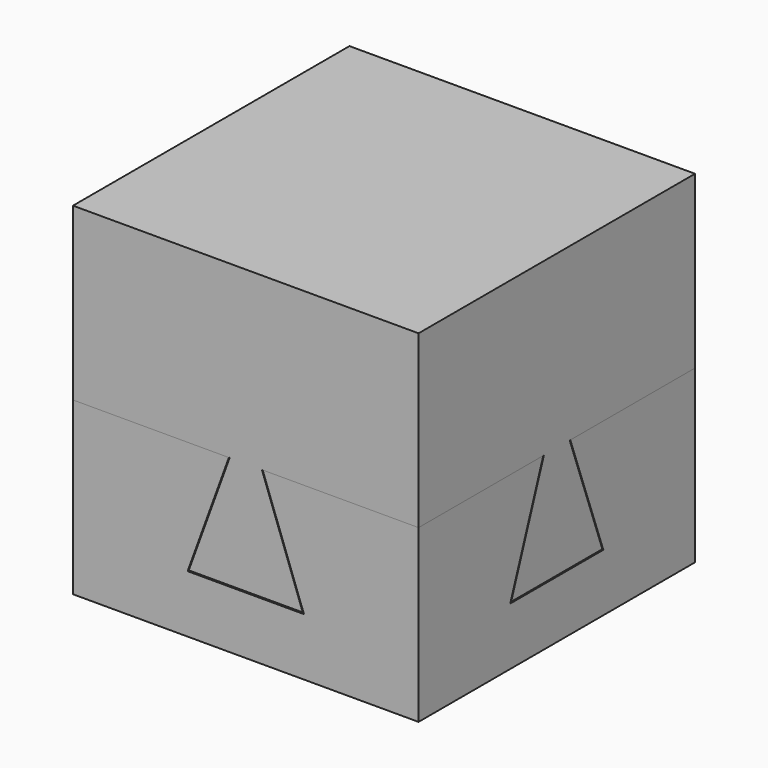
from build123d import *

# Parameters (mm, degrees)
F0_W      = 60
F0_H      = 60
F1_DEPTH  = 29.7
F7_W      = 60
F7_H      = 60
F8_DEPTH  = 29.7
F9_W      = 2.0984072936
F9_H      = 7.3124578476
F14_DEPTH = 59.4


with BuildPart() as f1:
    # F0 (on Top) → F1 (new body)
    with BuildSketch(Plane.XY):
        with Locations((30, 30)):
            Rectangle(F0_W, F0_H)
    extrude(amount=F1_DEPTH)

    # F4: sweep along a path in F3
    with BuildLine(Plane.XY.offset(29.7)) as f4_path:
        Line((60, 0), (0, 60))
    # F2 (on face) → F4 (sweep, cut)
    with BuildSketch(Plane.XZ):
        Polygon((32.929786385, 29.7), (27.070213615, 29.7), (19.9, 10), (40.1, 10), align=None)
    sweep(path=f4_path.line, mode=Mode.SUBTRACT)

    # F6: sweep along a path in F3
    with BuildLine(Plane.XY.offset(29.7)) as f6_path:
        Line((60, 0), (0, 60))
    # F5 (on face) → F6 (sweep, cut)
    with BuildSketch(Plane.YZ.offset(60)):
        Polygon((32.929786385, 29.7), (27.070213615, 29.7), (19.9, 10), (40.1, 10), align=None)
    sweep(path=f6_path.line, mode=Mode.SUBTRACT)


with BuildPart() as f8:
    # F7 (on face) → F8 (new body)
    with BuildSketch(Plane.XY.offset(29.7)):
        with Locations((30, 30)):
            Rectangle(F7_W, F7_H)
    extrude(amount=F8_DEPTH)

    # F10: sweep along a path in F3
    with BuildLine(Plane.XY.offset(29.7)) as f10_path:
        Line((60, 0), (0, 60))
    # F9 (on face) → F10 (sweep)
    with BuildSketch(Plane.YZ.offset(60)):
        with Locations((29.8194439733, 33.3562289238)):
            Rectangle(F9_W, F9_H)
        Polygon((28.7702403265, 29.7), (27.1974195682, 29.7), (20.1, 10.2), (39.9, 10.2), (32.8025804318, 29.7), (30.8686476201, 29.7), align=None)
    sweep(path=f10_path.line)

    # F12: sweep along a path in F3
    with BuildLine(Plane.XY.offset(29.7)) as f12_path:
        Line((60, 0), (0, 60))
    # F11 (on face) → F12 (sweep)
    with BuildSketch(Plane.XZ):
        Polygon((32.8025804318, 29.7), (27.1974195682, 29.7), (20.1, 10.2), (39.9, 10.2), align=None)
    sweep(path=f12_path.line)

    # F13 (on face) → F14 (cut, through all)
    with BuildSketch(Plane.XY.offset(59.4)):
        Polygon((-98.9901870489, 0), (0, 0), (0, 60), (60, 60), (60, 121.1255267262), (-98.9901870489, 121.1255267262), align=None)
    extrude(amount=-F14_DEPTH, mode=Mode.SUBTRACT)


solid = Compound([f1.part, f8.part])
